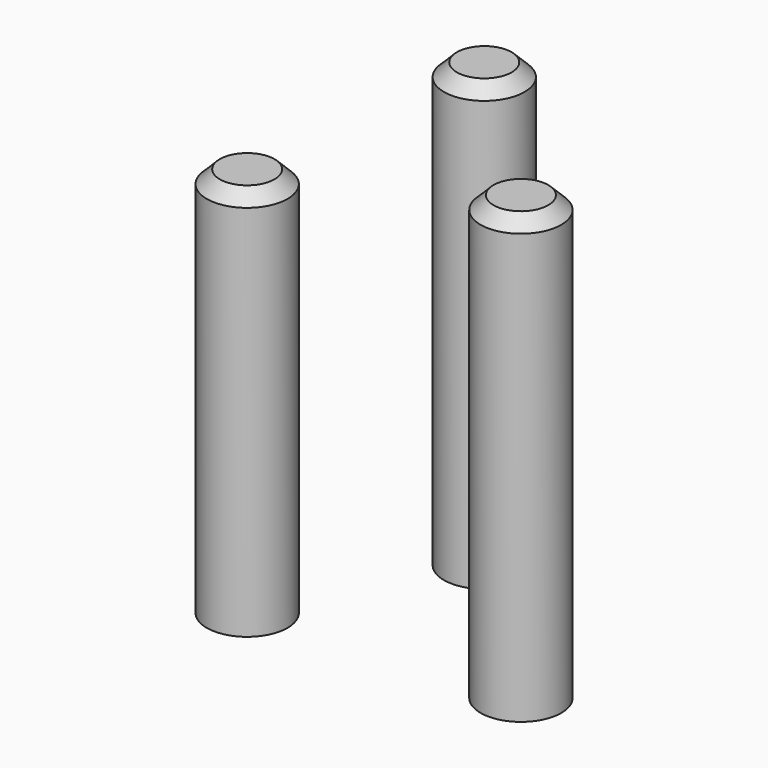
from build123d import *

# Parameters (mm, degrees)
F0_R     = 1.55
F1_DEPTH = 17
F2_SIZE  = 0.5
F3_R     = 1.55
F4_DEPTH = 17
F5_SIZE  = 0.5
F6_R     = 1.55
F7_DEPTH = 15
F8_SIZE  = 0.5


with BuildPart() as f1:
    # F0 (on Top) → F1 (new body)
    with BuildSketch(Plane.XY):
        Circle(F0_R)
    extrude(amount=F1_DEPTH)

    # F2
    f2_edges = [f1.edges().sort_by_distance(p)[0] for p in [
        (-1.55, 0, 17),
    ]]
    chamfer(f2_edges, length=F2_SIZE)


with BuildPart() as f4:
    # F3 (on Top) → F4 (new body)
    with BuildSketch(Plane.XY):
        with Locations((6.246898, -6.048553)):
            Circle(F3_R)
    extrude(amount=F4_DEPTH)

    # F5
    f5_edges = [f4.edges().sort_by_distance(p)[0] for p in [
        (4.696898, -6.048553, 17),
    ]]
    chamfer(f5_edges, length=F5_SIZE)


with BuildPart() as f7:
    # F6 (on Top) → F7 (new body)
    with BuildSketch(Plane.XY):
        with Locations((-3.612386, -6.863532)):
            Circle(F6_R)
    extrude(amount=F7_DEPTH)

    # F8
    f8_edges = [f7.edges().sort_by_distance(p)[0] for p in [
        (-5.162386, -6.863532, 15),
    ]]
    chamfer(f8_edges, length=F8_SIZE)


solid = Compound([f1.part, f4.part, f7.part])
